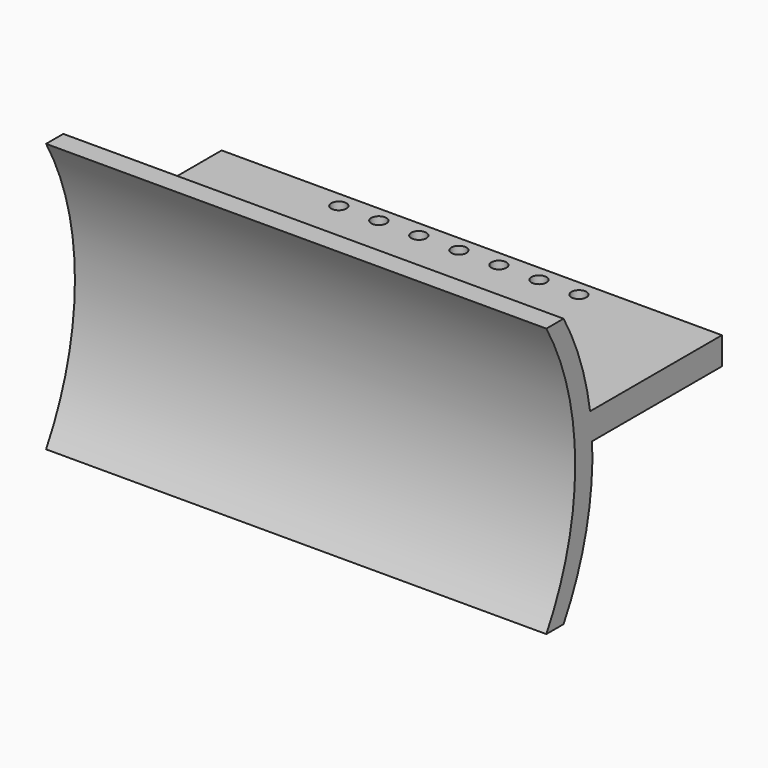
from build123d import *

# Parameters (mm, degrees)
F1_DEPTH = 118.11
F2_W     = 39.04492
F2_H     = 6.477
F3_DEPTH = 118.11
F4_R     = 1.778
F5_DEPTH = 25.4


with BuildPart() as f1:
    # F0 (on Right) → F1 (new body)
    with BuildSketch(Plane.YZ):
        with BuildLine():
            ThreePointArc((0, 31.75), (8.507387, 0), (0, -31.75))
            Line((0, -31.75), (5.08, -31.75))
            ThreePointArc((5.08, -31.75), (13.587387, 0), (5.08, 31.75))
            Line((5.08, 31.75), (0, 31.75))
        make_face()
    extrude(amount=F1_DEPTH)

    # F2 (on face) → F3 (join, through all)
    with BuildSketch(Plane(origin=(0, 0, 0), x_dir=(0, -1, 0), z_dir=(-1, 0, 0))):
        with Locations((-32.289425, 6.082614)):
            Rectangle(F2_W, F2_H)
    extrude(amount=-F3_DEPTH)

    # F4 (on face) → F5 (cut)
    with BuildSketch(Plane.XY.offset(9.321114)):
        with Locations((59.055, 48.001833)):
            Circle(F4_R)
        with Locations((49.6062, 48.001833)):
            Circle(F4_R)
        with Locations((40.1574, 48.001833)):
            Circle(F4_R)
        with Locations((68.5038, 48.001833)):
            Circle(F4_R)
        with Locations((77.9526, 48.001833)):
            Circle(F4_R)
        with Locations((30.7086, 48.001833)):
            Circle(F4_R)
        with Locations((87.4014, 48.001833)):
            Circle(F4_R)
    extrude(amount=-F5_DEPTH, mode=Mode.SUBTRACT)


solid = f1.part
